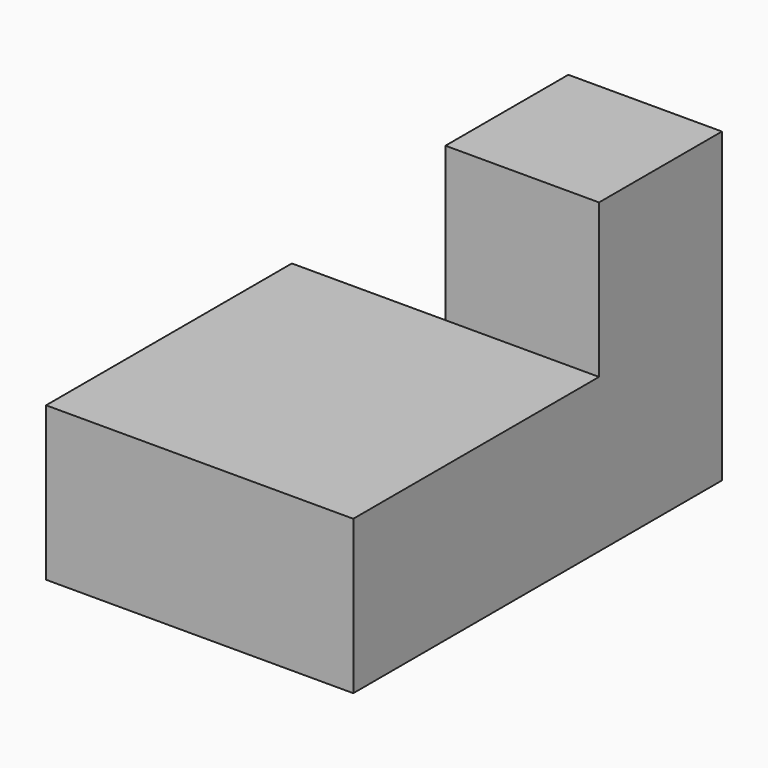
from build123d import *

# Parameters (mm, degrees)
F1_DEPTH = 19.05
F2_W     = 19.05
F2_H     = 19.05
F3_DEPTH = 19.05


with BuildPart() as f1:
    # F0 (on Top) → F1 (new body)
    with BuildSketch(Plane.XY):
        Polygon((0, 38.1), (0, 0), (38.1, 0), (38.1, 38.1), (38.1, 57.15), (19.05, 57.15), (19.05, 38.1), align=None)
    extrude(amount=F1_DEPTH)

    # F2 (on face) → F3 (join)
    with BuildSketch(Plane.XY.offset(19.05)):
        with Locations((28.575, 47.625)):
            Rectangle(F2_W, F2_H)
    extrude(amount=F3_DEPTH)


solid = f1.part
